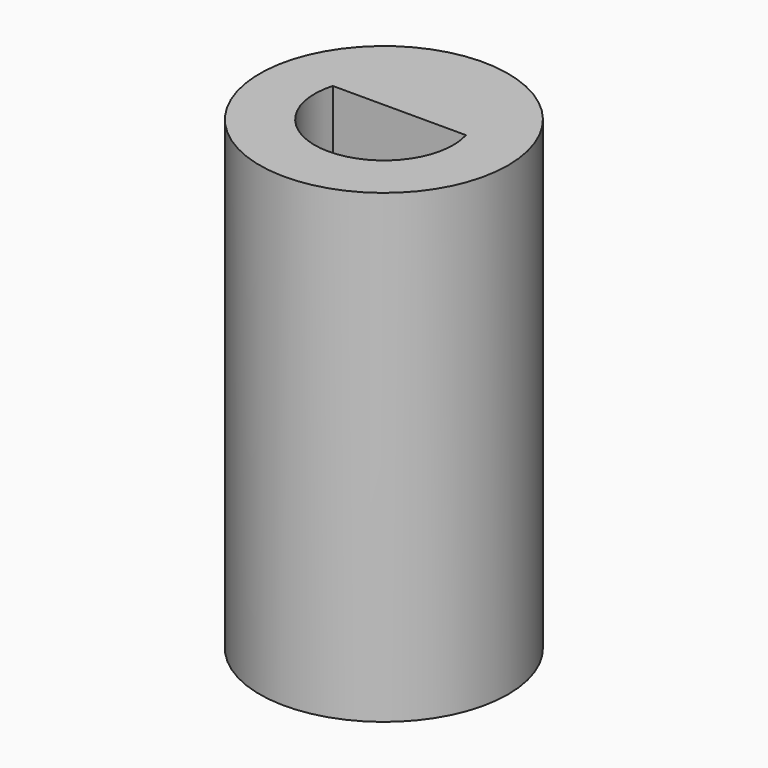
from build123d import *

# Parameters (mm, degrees)
F0_R     = 6
F1_DEPTH = 22.5


with BuildPart() as f1:
    # F0 (on Top) → F1 (new body)
    with BuildSketch(Plane.XY):
        Circle(F0_R)
        with BuildLine():
            ThreePointArc((-3.217142, 0.934077), (-2.962107, 1.564744), (-2.584923, 2.130885))
            ThreePointArc((-2.584923, 2.130885), (0, 3.35), (2.584923, 2.130885))
            ThreePointArc((2.584923, 2.130885), (2.962107, 1.564744), (3.217142, 0.934077))
            ThreePointArc((3.217142, 0.934077), (0, -3.35), (-3.217142, 0.934077))
        make_face(mode=Mode.SUBTRACT)
        with BuildLine():
            ThreePointArc((2.584923, 2.130885), (0, 3.35), (-2.584923, 2.130885))
            ThreePointArc((-2.584923, 2.130885), (-2.962107, 1.564744), (-3.217142, 0.934077))
            Line((-3.217142, 0.934077), (0, 0.934077))
            Line((0, 0.934077), (3.217142, 0.934077))
            ThreePointArc((3.217142, 0.934077), (2.962107, 1.564744), (2.584923, 2.130885))
        make_face()
    extrude(amount=F1_DEPTH)


solid = f1.part
